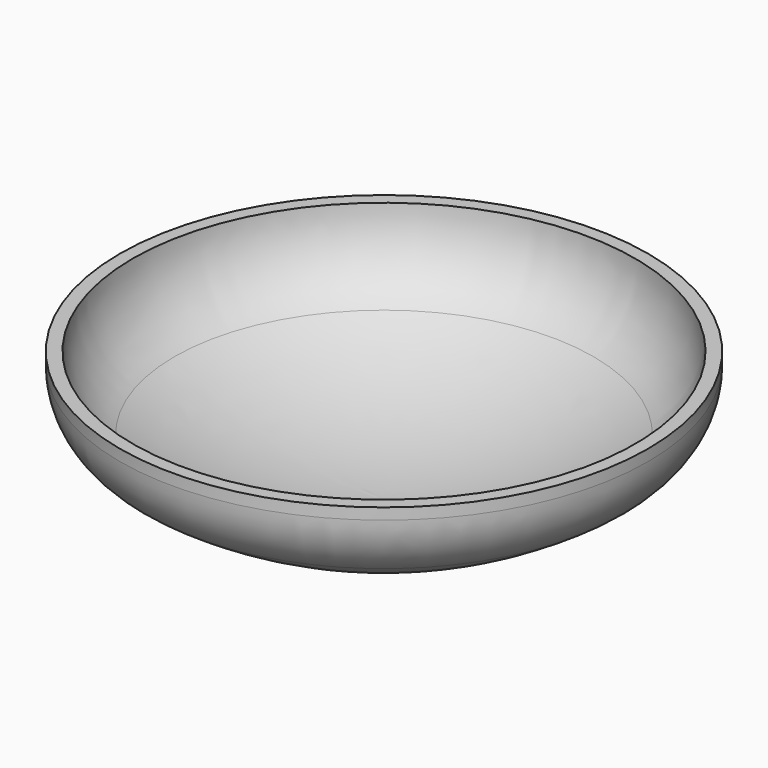
from build123d import *


with BuildPart() as f1:
    # F0 (on Front) → F1 (revolve)
    with BuildSketch(Plane.XZ):
        with BuildLine():
            ThreePointArc((0, -639.492216), (-532.894487, -567.781684), (-1027.875764, -357.751994))
            ThreePointArc((-1027.875764, -357.751994), (-1177.168761, -205.870596), (-1231.7, 0))
            Line((-1231.7, 0), (-1295.5, 0))
            Line((-1295.5, 0), (-1295.5, -55.523612))
            ThreePointArc((-1295.5, -55.523612), (-1255.899913, -217.239084), (-1146.060606, -342.360575))
            ThreePointArc((-1146.060606, -342.360575), (-600.775865, -610.926447), (0, -703.292216))
            Line((0, -703.292216), (0, -639.492216))
        make_face()
        with BuildLine():
            ThreePointArc((0, -639.492216), (-532.894487, -567.781684), (-1027.875764, -357.751994))
            ThreePointArc((-1027.875764, -357.751994), (-1177.168761, -205.870596), (-1231.7, 0))
            Line((-1231.7, 0), (-1295.5, 0))
            Line((-1295.5, 0), (-1295.5, -55.523612))
            ThreePointArc((-1295.5, -55.523612), (-1255.899913, -217.239084), (-1146.060606, -342.360575))
            ThreePointArc((-1146.060606, -342.360575), (-600.775865, -610.926447), (0, -703.292216))
            Line((0, -703.292216), (0, -639.492216))
        make_face()
    revolve(axis=Axis((0, 0, -671.392216), (0, 0, -1)))


solid = f1.part
